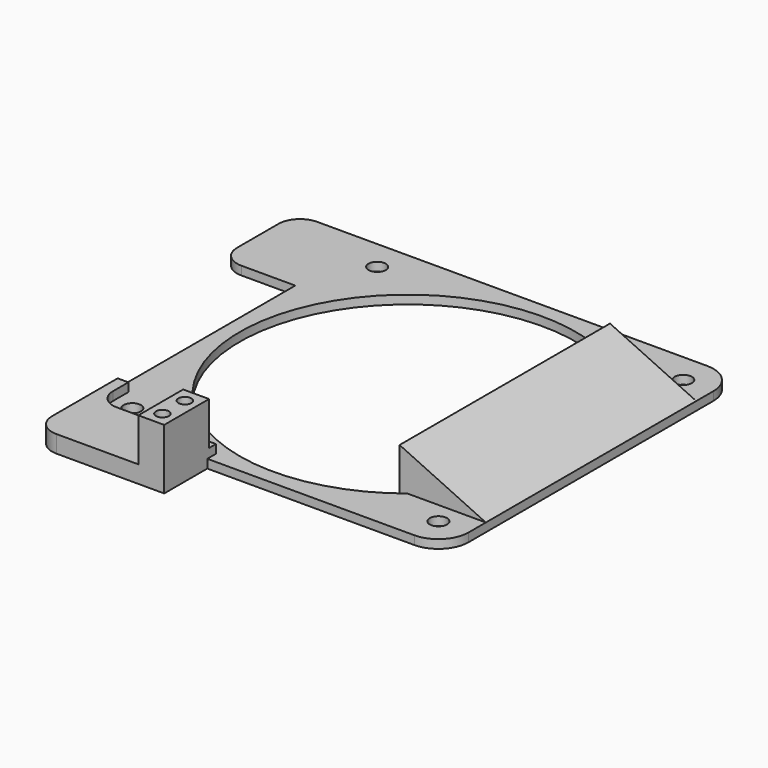
from build123d import *

# Parameters (mm, degrees)
SKETCH003_R         = 39
PAD002_DEPTH        = 2
PAD009_DEPTH        = 4
SKETCH011_W         = 6
SKETCH011_H         = 13
SKETCH011_R         = 1.5
PAD011_DEPTH        = 10
PAD012_DEPTH        = 2
SKETCH013_R         = 2
SKETCH013_R_2       = 39
POCKET_DEPTH        = 0.001
POCKET_DEPTH_BACK   = 14.001
PAD003_DEPTH        = 29.5
PAD006_DEPTH        = 0.5
LINEARPATTERN_COUNT = 7
LINEARPATTERN_PITCH = 10


with BuildPart() as part:
    # Sketch003 → Pad002 (new body)
    with BuildSketch(Plane.XY):
        with BuildLine():
            Line((-42.5, 35.5), (-42.5, -42.5))
            Line((-42.5, -42.5), (35.5, -42.5))
            ThreePointArc((35.5, -42.5), (40.449747, -40.449747), (42.5, -35.5))
            Line((42.5, -35.5), (42.5, 35.5))
            ThreePointArc((42.5, 35.5), (40.449747, 40.449747), (35.5, 42.5))
            Line((35.5, 42.5), (-35.5, 42.5))
            ThreePointArc((-35.5, 42.5), (-40.449747, 40.449747), (-42.5, 35.5))
        make_face()
        Circle(SKETCH003_R, mode=Mode.SUBTRACT)
    extrude(amount=PAD002_DEPTH)

    # Sketch009 → Pad009 (join)
    with BuildSketch(Plane.XY):
        with BuildLine():
            Line((-42.5, -31), (-42.5, -50))
            ThreePointArc((-42.5, -50), (-41.035534, -53.535534), (-37.5, -55))
            Line((-37.5, -55), (-12.5, -55))
            Line((-12.5, -55), (-12.5, -40))
            Line((-12.5, -40), (-35.5, -40))
            ThreePointArc((-40, -35.5), (-38.681981, -38.681981), (-35.5, -40))
            Line((-40, -31), (-40, -35.5))
            Line((-42.5, -31), (-40, -31))
        make_face()
    extrude(amount=PAD009_DEPTH)

    # Sketch011 → Pad011 (join)
    with BuildSketch(Plane.XY.offset(4)):
        with Locations((-15.5, -48.5)):
            Rectangle(SKETCH011_W, SKETCH011_H)
        with Locations((-15.5, -45.25)):
            Circle(SKETCH011_R, mode=Mode.SUBTRACT)
        with Locations((-15.5, -51.75)):
            Circle(SKETCH011_R, mode=Mode.SUBTRACT)
    extrude(amount=PAD011_DEPTH)

    # Sketch012 → Pad012 (join)
    with BuildSketch(Plane.XY):
        with BuildLine():
            Line((-60, 37.5), (-60, 25.5))
            ThreePointArc((-60, 25.5), (-58.535534, 21.964466), (-55, 20.5))
            Line((-55, 20.5), (-35.5, 20.5))
            Line((-35.5, 20.5), (-35.5, 42.5))
            Line((-35.5, 42.5), (-55, 42.5))
            ThreePointArc((-55, 42.5), (-58.535534, 41.035534), (-60, 37.5))
        make_face()
    extrude(amount=PAD012_DEPTH)

    # Sketch013 → Pocket (cut, two sides)
    with BuildSketch(Plane.XY) as pocket_sk:
        with Locations((-35.5, 35.5)):
            Circle(SKETCH013_R)
        with Locations((35.5, 35.5)):
            Circle(SKETCH013_R)
        with Locations((35.5, -35.5)):
            Circle(SKETCH013_R)
        with Locations((-35.5, -35.5)):
            Circle(SKETCH013_R)
        Circle(SKETCH013_R_2)
    extrude(amount=-POCKET_DEPTH, mode=Mode.SUBTRACT)
    extrude(pocket_sk.sketch, amount=POCKET_DEPTH_BACK, mode=Mode.SUBTRACT)

    # Sketch002 → Pad003 (join, symmetric)
    with BuildSketch(Plane.XZ):
        Polygon((22.5, 11.326153), (42.5, 2), (42.5, 0.8), (22.5, 10.126153), align=None)
    extrude(amount=PAD003_DEPTH, both=True)

    # Sketch006 → Pad006 (join, symmetric)
    with BuildSketch(Plane.XZ.offset(-30)):
        Polygon((22.5, 11.326153), (42.5, 2), (42.5, 0), (22.5, 0), align=None)
    pad006 = extrude(amount=PAD006_DEPTH, both=True)

    # LinearPattern: Pad006 ×7
    with Locations(*[(0, -i * LINEARPATTERN_PITCH, 0) for i in range(1, LINEARPATTERN_COUNT)]):
        add(pad006)


with BuildPart() as part_1:
    # Body001 placement: moved
    add(part.part.moved(Location((0, 0, 2))))


solid = part_1.part
